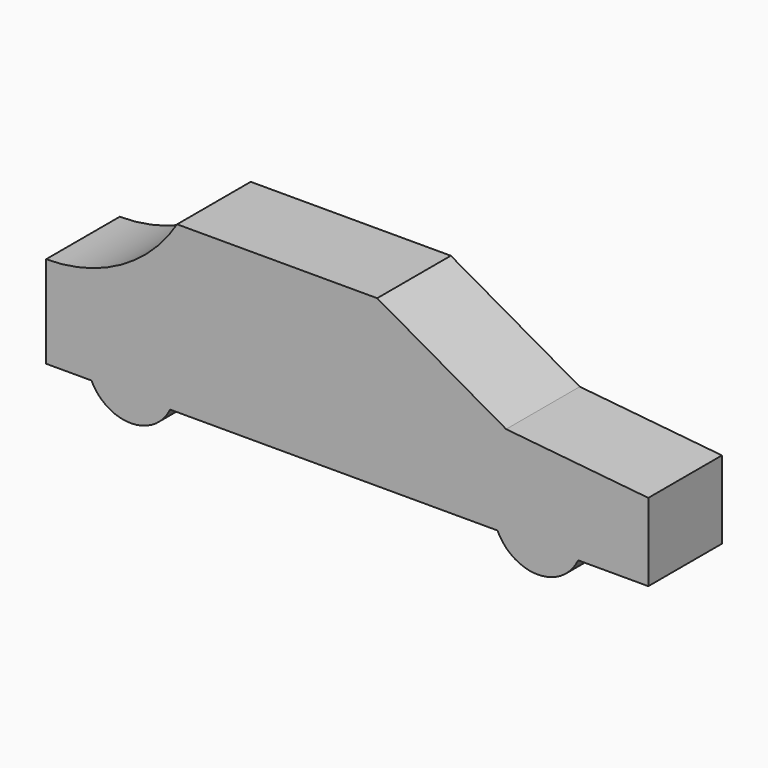
from build123d import *

# Parameters (mm, degrees)
F1_DEPTH = 25.4
F2_DEPTH = 25.4
F3_DEPTH = 25.4


with BuildPart() as f1:
    # F0 (on Front) → F1 (new body)
    with BuildSketch(Plane.XZ):
        with BuildLine():
            ThreePointArc((-32.6936654747, 64.7734031081), (-48.13655305, 49.9296563149), (-68.8628588319, 44.5222683907))
            Line((-68.8628588319, 44.5222683907), (58.1371411681, 44.5222683907))
            Line((58.1371411681, 44.5222683907), (22.5408878177, 64.7734031081))
            Line((22.5408878177, 64.7734031081), (-32.6936654747, 64.7734031081))
        make_face()
        with BuildLine():
            Line((58.1371411681, 44.5222683907), (-68.8628588319, 44.5222683907))
            Line((-68.8628588319, 44.5222683907), (-68.8628588319, 19.1222683907))
            Line((-68.8628588319, 19.1222683907), (-56.3345537444, 19.1222683907))
            ThreePointArc((-56.3345537444, 19.1222683907), (-48.1413485784, 36.0579067807), (-33.43944267, 24.3191495538))
            ThreePointArc((-33.43944267, 24.3191495538), (-33.7380519171, 21.6546101194), (-34.6190645437, 19.1222683907))
            Line((-34.6190645437, 19.1222683907), (55.7402772585, 19.1222683907))
            ThreePointArc((55.7402772585, 19.1222683907), (54.7678046883, 26.416830746), (58.1371411681, 32.9593008102))
            Line((58.1371411681, 32.9593008102), (58.1371411681, 44.5222683907))
        make_face()
    extrude(amount=F1_DEPTH)

    # F0 (on Front) → F2 (join)
    with BuildSketch(Plane.XZ):
        with BuildLine():
            ThreePointArc((-32.6936654747, 64.7734031081), (-48.13655305, 49.9296563149), (-68.8628588319, 44.5222683907))
            Line((-68.8628588319, 44.5222683907), (58.1371411681, 44.5222683907))
            Line((58.1371411681, 44.5222683907), (22.5408878177, 64.7734031081))
            Line((22.5408878177, 64.7734031081), (-32.6936654747, 64.7734031081))
        make_face()
        with BuildLine():
            Line((58.1371411681, 44.5222683907), (-68.8628588319, 44.5222683907))
            Line((-68.8628588319, 44.5222683907), (-68.8628588319, 19.1222683907))
            Line((-68.8628588319, 19.1222683907), (-56.3345537444, 19.1222683907))
            ThreePointArc((-56.3345537444, 19.1222683907), (-48.1413485784, 36.0579067807), (-33.43944267, 24.3191495538))
            ThreePointArc((-33.43944267, 24.3191495538), (-33.7380519171, 21.6546101194), (-34.6190645437, 19.1222683907))
            Line((-34.6190645437, 19.1222683907), (55.7402772585, 19.1222683907))
            ThreePointArc((55.7402772585, 19.1222683907), (54.7678046883, 26.416830746), (58.1371411681, 32.9593008102))
            Line((58.1371411681, 32.9593008102), (58.1371411681, 44.5222683907))
        make_face()
        with BuildLine():
            Line((97.3853468895, 40.5878610909), (58.1371411681, 44.5222683907))
            Line((58.1371411681, 44.5222683907), (58.1371411681, 32.9593008102))
            ThreePointArc((58.1371411681, 32.9593008102), (71.5481129353, 35.6873436348), (79.1678599605, 24.3191495538))
            ThreePointArc((79.1678599605, 24.3191495538), (78.8761964322, 21.6575453897), (78.0150490125, 19.1222683907))
            Line((78.0150490125, 19.1222683907), (97.3853468895, 19.1222683907))
            Line((97.3853468895, 19.1222683907), (97.3853468895, 23.5926117748))
            Line((97.3853468895, 23.5926117748), (97.3853468895, 40.5878610909))
        make_face()
        with BuildLine():
            ThreePointArc((79.1678599605, 24.3191495538), (71.5481129353, 35.6873436348), (58.1371411681, 32.9593008102))
            Line((58.1371411681, 32.9593008102), (58.1371411681, 19.1222683907))
            Line((58.1371411681, 19.1222683907), (78.0150490125, 19.1222683907))
            ThreePointArc((78.0150490125, 19.1222683907), (78.8761964322, 21.6575453897), (79.1678599605, 24.3191495538))
        make_face()
        with BuildLine():
            Line((58.1371411681, 19.1222683907), (58.1371411681, 32.9593008102))
            ThreePointArc((58.1371411681, 32.9593008102), (54.7678046883, 26.416830746), (55.7402772585, 19.1222683907))
            Line((55.7402772585, 19.1222683907), (58.1371411681, 19.1222683907))
        make_face()
        with BuildLine():
            ThreePointArc((-33.43944267, 24.3191495538), (-48.1413485784, 36.0579067807), (-56.3345537444, 19.1222683907))
            Line((-56.3345537444, 19.1222683907), (-34.6190645437, 19.1222683907))
            ThreePointArc((-34.6190645437, 19.1222683907), (-33.7380519171, 21.6546101194), (-33.43944267, 24.3191495538))
        make_face()
        with BuildLine():
            Line((-34.6190645437, 19.1222683907), (-56.3345537444, 19.1222683907))
            ThreePointArc((-56.3345537444, 19.1222683907), (-45.476809144, 12.2817830798), (-34.6190645437, 19.1222683907))
        make_face()
        with BuildLine():
            Line((78.0150490125, 19.1222683907), (58.1371411681, 19.1222683907))
            Line((58.1371411681, 19.1222683907), (55.7402772585, 19.1222683907))
            ThreePointArc((55.7402772585, 19.1222683907), (66.8776631355, 12.0289527288), (78.0150490125, 19.1222683907))
        make_face()
    extrude(amount=F2_DEPTH)

    # F0 (on Front) → F3 (join)
    with BuildSketch(Plane.XZ):
        with BuildLine():
            Line((97.3853468895, 40.5878610909), (58.1371411681, 44.5222683907))
            Line((58.1371411681, 44.5222683907), (58.1371411681, 32.9593008102))
            ThreePointArc((58.1371411681, 32.9593008102), (71.5481129353, 35.6873436348), (79.1678599605, 24.3191495538))
            ThreePointArc((79.1678599605, 24.3191495538), (78.8761964322, 21.6575453897), (78.0150490125, 19.1222683907))
            Line((78.0150490125, 19.1222683907), (97.3853468895, 19.1222683907))
            Line((97.3853468895, 19.1222683907), (97.3853468895, 23.5926117748))
            Line((97.3853468895, 23.5926117748), (97.3853468895, 40.5878610909))
        make_face()
        with BuildLine():
            ThreePointArc((79.1678599605, 24.3191495538), (71.5481129353, 35.6873436348), (58.1371411681, 32.9593008102))
            Line((58.1371411681, 32.9593008102), (58.1371411681, 19.1222683907))
            Line((58.1371411681, 19.1222683907), (78.0150490125, 19.1222683907))
            ThreePointArc((78.0150490125, 19.1222683907), (78.8761964322, 21.6575453897), (79.1678599605, 24.3191495538))
        make_face()
    extrude(amount=F3_DEPTH)


solid = f1.part
